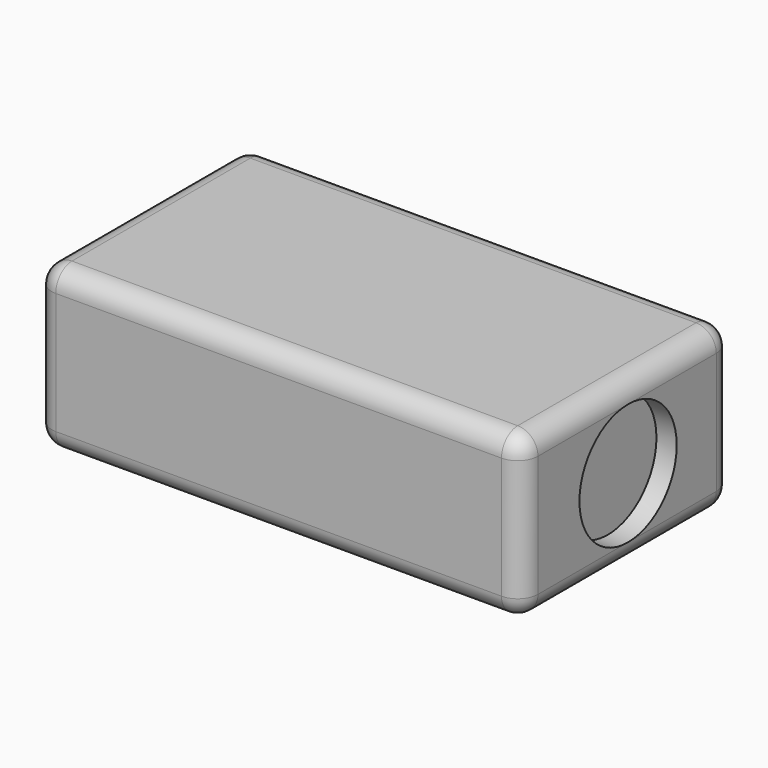
from build123d import *

# Parameters (mm, degrees)
F0_W     = 120
F0_H     = 65
F1_DEPTH = 40
F2_R     = 5
F3_R     = 15
F4_DEPTH = 5
F5_R     = 10
F6_DEPTH = 5
F7_SIZE  = 3


with BuildPart() as f1:
    # F0 (on Top) → F1 (new body)
    with BuildSketch(Plane.XY):
        with Locations((0, -0.295118)):
            Rectangle(F0_W, F0_H)
    extrude(amount=F1_DEPTH)

    # F2
    f2_edges = [f1.edges().sort_by_distance(p)[0] for p in [
        (-60, -32.795118, 20),
        (60, -32.795118, 20),
        (60, 32.204882, 20),
        (-60, 32.204882, 20),
        (0, 32.204882, 40),
        (60, -0.295118, 40),
        (0, -32.795118, 40),
        (-60, -0.295118, 40),
        (0, 32.204882, 0),
        (0, -32.795118, 0),
        (-60, -0.295118, 0),
        (60, -0.295118, 0),
    ]]
    fillet(f2_edges, radius=F2_R)

    # F3 (on face) → F4 (cut)
    with BuildSketch(Plane.YZ.offset(60)):
        with Locations((0, 20)):
            Circle(F3_R)
    extrude(amount=-F4_DEPTH, mode=Mode.SUBTRACT)

    # F5 (on face) → F6 (join)
    with BuildSketch(Plane(origin=(0, 32.204882, 0), x_dir=(-1, 0, 0), z_dir=(0, 1, 0))):
        with Locations((-30, 20)):
            Circle(F5_R)
    extrude(amount=F6_DEPTH)

    # F7
    f7_edges = [f1.edges().sort_by_distance(p)[0] for p in [
        (40, 37.204882, 20),
    ]]
    chamfer(f7_edges, length=F7_SIZE)


solid = f1.part
